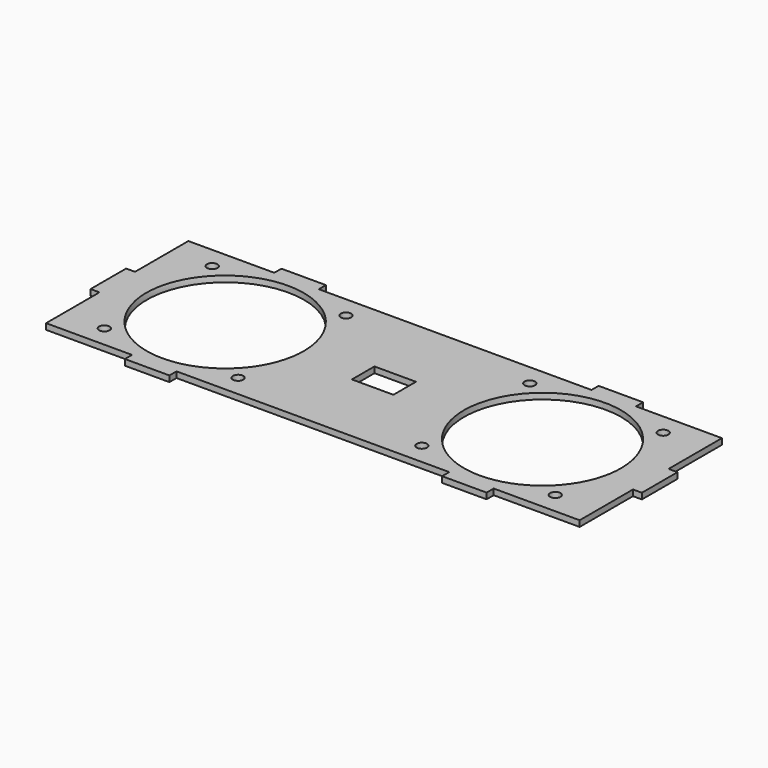
from build123d import *

# Parameters (mm, degrees)
SKETCH001_W   = 180
SKETCH001_H   = 60
SKETCH001_W_2 = 15
SKETCH001_H_2 = 3
SKETCH001_W_3 = 3
SKETCH001_H_3 = 15
PAD_DEPTH     = 2
SKETCH_R      = 1.75
SKETCH_R_2    = 26.5
SKETCH_W      = 14
SKETCH_H      = 9.5


with BuildPart() as part:
    # Sketch001 → Pad (new body)
    with BuildSketch(Plane.XY):
        with Locations((90, 30)):
            Rectangle(SKETCH001_W, SKETCH001_H)
        with Locations((36.5, 61.5)):
            Rectangle(SKETCH001_W_2, SKETCH001_H_2)
        with Locations((36.5, -1.5)):
            Rectangle(SKETCH001_W_2, SKETCH001_H_2)
        with Locations((143.5, 61.5)):
            Rectangle(SKETCH001_W_2, SKETCH001_H_2)
        with Locations((143.5, -1.5)):
            Rectangle(SKETCH001_W_2, SKETCH001_H_2)
        with Locations((-1.5, 30)):
            Rectangle(SKETCH001_W_3, SKETCH001_H_3)
        with Locations((181.5, 30)):
            Rectangle(SKETCH001_W_3, SKETCH001_H_3)
    extrude(amount=PAD_DEPTH)

    # Sketch → Groove (revolve, cut)
    with BuildSketch(Plane.XY):
        with Locations((14, 52.754121)):
            Circle(SKETCH_R)
        with Locations((59, 52.754121)):
            Circle(SKETCH_R)
        with Locations((14, 7.245879)):
            Circle(SKETCH_R)
        with Locations((59, 7.245879)):
            Circle(SKETCH_R)
        with Locations((36.5, 30)):
            Circle(SKETCH_R_2)
        with Locations((166, 52.754121)):
            Circle(SKETCH_R)
        with Locations((121, 52.754121)):
            Circle(SKETCH_R)
        with Locations((166, 7.245879)):
            Circle(SKETCH_R)
        with Locations((121, 7.245879)):
            Circle(SKETCH_R)
        with Locations((143.5, 30)):
            Circle(SKETCH_R_2)
        with Locations((90, 30)):
            Rectangle(SKETCH_W, SKETCH_H)
    revolve(axis=Axis((0, 0, 0), (0, 1, 0)), mode=Mode.SUBTRACT)


solid = part.part
